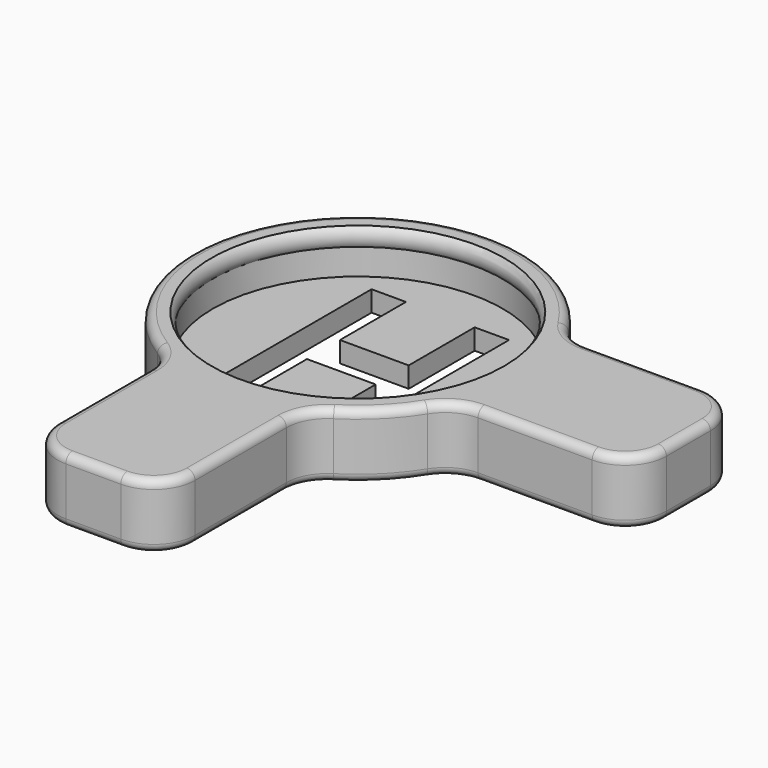
from build123d import *

# Parameters (mm, degrees)
F3_DEPTH = 5.9869614104
F4_R     = 3.81
F5_R     = 0.762
F7_DEPTH = 25.4


with BuildPart() as f1:
    # F0 (on Front) → F1 (revolve)
    with BuildSketch(Plane.XZ):
        with BuildLine():
            Line((15.3035, 0), (15.3035, 4.1730385896))
            ThreePointArc((15.3035, 4.1730385896), (14.3181376493, 3.8136610654), (13.3985, 4.318))
            Line((13.3985, 4.318), (13.3985, 1.905))
            Line((13.3985, 1.905), (0, 1.905))
            Line((0, 1.905), (0, 0))
            Line((0, 0), (15.3035, 0))
        make_face()
        with BuildLine():
            ThreePointArc((13.3985, 4.318), (14.3181376493, 3.8136610654), (15.3035, 4.1730385896))
            Line((15.3035, 4.1730385896), (15.3035, 5.9869614104))
            Line((15.3035, 5.9869614104), (13.5255, 5.9869614104))
            ThreePointArc((13.5255, 5.9869614104), (13.1481610654, 5.1763623507), (13.3985, 4.318))
        make_face()
    revolve(axis=Axis((0, 0, 4.2298094004), (0, 0, -1)))

    # F2 (on face) → F3 (join, through all)
    with BuildSketch(Plane.XY.offset(5.9869614104)):
        with BuildLine():
            Line((30.5435, -6.35), (30.5435, 6.35))
            Line((30.5435, 6.35), (13.9238863917, 6.35))
            ThreePointArc((13.9238863917, 6.35), (15.3035, 0), (13.9238863917, -6.35))
            Line((13.9238863917, -6.35), (30.5435, -6.35))
        make_face()
        with BuildLine():
            Line((-6.35, -30.5435), (6.35, -30.5435))
            Line((6.35, -30.5435), (6.35, -13.9238863917))
            ThreePointArc((6.35, -13.9238863917), (0, -15.3035), (-6.35, -13.9238863917))
            Line((-6.35, -13.9238863917), (-6.35, -30.5435))
        make_face()
    extrude(amount=-F3_DEPTH)

    # F4
    f4_edges = [f1.edges().sort_by_distance(p)[0] for p in [
        (-6.35, -30.5435, 2.993481),
        (-6.35, -13.923886, 2.993481),
        (6.35, -30.5435, 2.993481),
        (6.35, -13.923886, 2.993481),
        (13.923886, -6.35, 2.993481),
        (30.5435, -6.35, 2.993481),
        (30.5435, 6.35, 2.993481),
        (13.923886, 6.35, 2.993481),
    ]]
    fillet(f4_edges, radius=F4_R)

    # F5
    f5_edges = [f1.edges().sort_by_distance(p)[0] for p in [
        (0, -30.5435, 5.986961),
        (0, -30.5435, 0),
    ]]
    fillet(f5_edges, radius=F5_R)

    # F6 (on face) → F7 (cut)
    with BuildSketch(Plane.XY.offset(1.905)):
        Polygon((-3.175, 9.525), (-6.35, 9.525), (-6.35, -9.525), (-3.175, -9.525), (-3.175, -1.905), (3.175, -1.905), (3.175, -9.525), (6.35, -9.525), (6.35, 9.525), (3.175, 9.525), (3.175, 1.905), (-3.175, 1.905), align=None)
    extrude(amount=-F7_DEPTH, mode=Mode.SUBTRACT)


solid = f1.part
